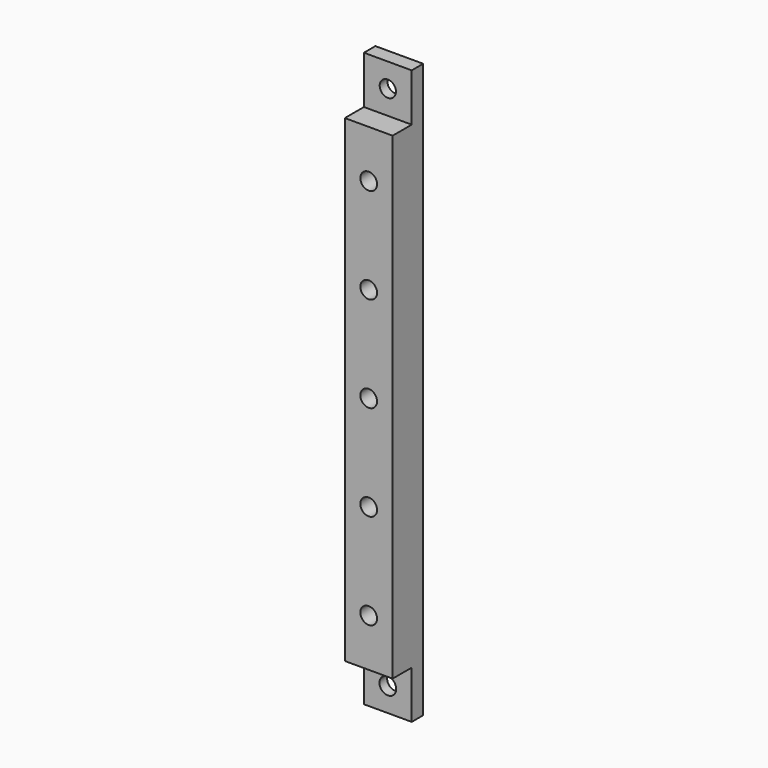
from build123d import *

# Parameters (mm, degrees)
SKETCH003_W     = 10
SKETCH003_H     = 8
PAD002_DEPTH    = 100
SKETCH004_W     = 10
SKETCH004_H     = 3
PAD003_DEPTH    = 10
SKETCH005_R     = 1.7
POCKET001_DEPTH = 5
SKETCH006_R     = 3.5
POCKET002_DEPTH = 1
SKETCH007_W     = 10
SKETCH007_H     = 3
PAD004_DEPTH    = 10
SKETCH008_R     = 1.75
POCKET003_DEPTH = 5
SKETCH009_R     = 3.5
POCKET004_DEPTH = 1
SKETCH010_R     = 1.75
POCKET005_DEPTH = 6


with BuildPart() as part:
    # Sketch003 → Pad002 (new body)
    with BuildSketch(Plane.XY):
        with Locations((-15, 49)):
            Rectangle(SKETCH003_W, SKETCH003_H)
    extrude(amount=PAD002_DEPTH)

    # Sketch004 (on Face6 of Pad002) → Pad003 (join)
    with BuildSketch(Plane.XY.offset(100)):
        with Locations((-15, 51.5)):
            Rectangle(SKETCH004_W, SKETCH004_H)
    extrude(amount=PAD003_DEPTH)

    # Sketch005 (on Face5 of Pad003) → Pocket001 (cut)
    with BuildSketch(Plane(origin=(0, 53, 0), x_dir=(-1, 0, 0), z_dir=(0, 1, 0))):
        with Locations((15, 105)):
            Circle(SKETCH005_R)
    extrude(amount=-POCKET001_DEPTH, mode=Mode.SUBTRACT)

    # Sketch006 (on Face5 of Pocket001) → Pocket002 (cut)
    with BuildSketch(Plane(origin=(0, 53, 0), x_dir=(-1, 0, 0), z_dir=(0, 1, 0))):
        with Locations((15, 105)):
            Circle(SKETCH006_R)
    extrude(amount=-POCKET002_DEPTH, mode=Mode.SUBTRACT)

    # Sketch007 (on Face4 of Pocket002) → Pad004 (join)
    with BuildSketch(Plane(origin=(0, 0, 0), x_dir=(1, 0, 0), z_dir=(0, 0, -1))):
        with Locations((-15, -51.5)):
            Rectangle(SKETCH007_W, SKETCH007_H)
    extrude(amount=PAD004_DEPTH)

    # Sketch008 (on Face4 of Pad004) → Pocket003 (cut)
    with BuildSketch(Plane(origin=(0, 53, 0), x_dir=(-1, 0, 0), z_dir=(0, 1, 0))):
        with Locations((15, -5)):
            Circle(SKETCH008_R)
    extrude(amount=-POCKET003_DEPTH, mode=Mode.SUBTRACT)

    # Sketch009 (on Face4 of Pocket003) → Pocket004 (cut)
    with BuildSketch(Plane(origin=(0, 53, 0), x_dir=(-1, 0, 0), z_dir=(0, 1, 0))):
        with Locations((15, -5)):
            Circle(SKETCH009_R)
    extrude(amount=-POCKET004_DEPTH, mode=Mode.SUBTRACT)

    # Sketch010 (on Face6 of Pocket004) → Pocket005 (cut)
    with BuildSketch(Plane.XZ.offset(-45)):
        with Locations((-15, 90)):
            Circle(SKETCH010_R)
        with Locations((-15, 70)):
            Circle(SKETCH010_R)
        with Locations((-15, 50)):
            Circle(SKETCH010_R)
        with Locations((-15, 30)):
            Circle(SKETCH010_R)
        with Locations((-15, 10)):
            Circle(SKETCH010_R)
    extrude(amount=-POCKET005_DEPTH, mode=Mode.SUBTRACT)


solid = part.part
